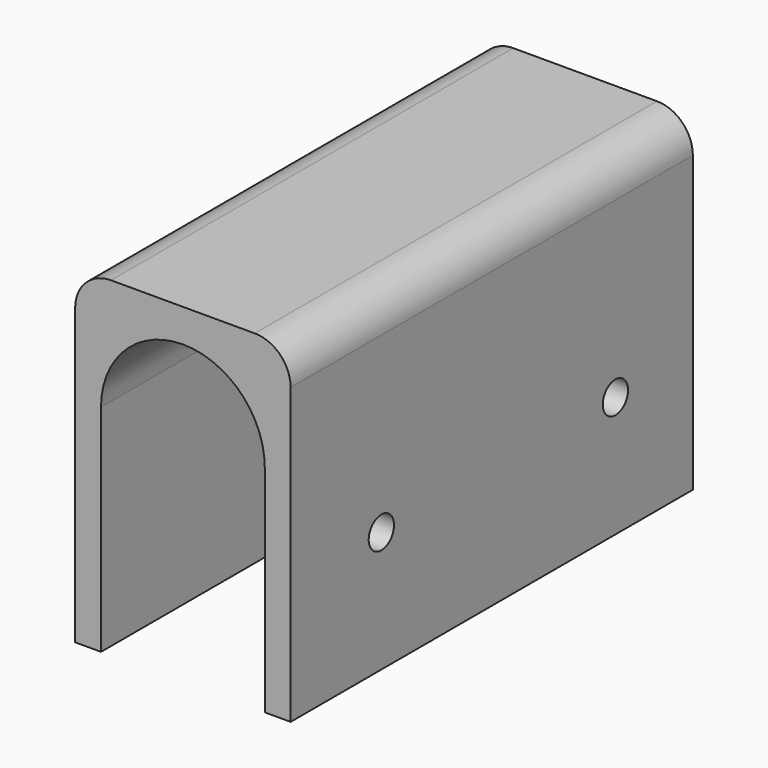
from build123d import *

# Parameters (mm, degrees)
F0_W     = 30
F0_H     = 46
F1_DEPTH = 70
F2_W     = 22.8
F2_H     = 30
F3_DEPTH = 70
F4_R     = 2.2
F5_DEPTH = 3.6
F6_R     = 5


with BuildPart() as f1:
    # F0 (on Front) → F1 (new body)
    with BuildSketch(Plane.XZ):
        with Locations((7.198161, 6.185042)):
            Rectangle(F0_W, F0_H)
    extrude(amount=F1_DEPTH)

    # F2 (on face) → F3 (cut)
    with BuildSketch(Plane.XZ.offset(70)):
        with BuildLine():
            ThreePointArc((18.598161, 13.185042), (7.198161, 24.585042), (-4.201839, 13.185042))
            Line((-4.201839, 13.185042), (18.598161, 13.185042))
        make_face()
        with Locations((7.198161, -1.814958)):
            Rectangle(F2_W, F2_H)
    extrude(amount=-F3_DEPTH, mode=Mode.SUBTRACT)

    # F4 (on face) → F5 (cut, through all)
    with BuildSketch(Plane.YZ.offset(22.198161)):
        with Locations((-54.21123, 0)):
            Circle(F4_R)
        with Locations((-13.479018, 0)):
            Circle(F4_R)
    extrude(amount=-F5_DEPTH, mode=Mode.SUBTRACT)

    # F6
    f6_edges = [f1.edges().sort_by_distance(p)[0] for p in [
        (-7.801839, -35, 29.185042),
        (22.198161, -35, 29.185042),
    ]]
    fillet(f6_edges, radius=F6_R)


solid = f1.part
